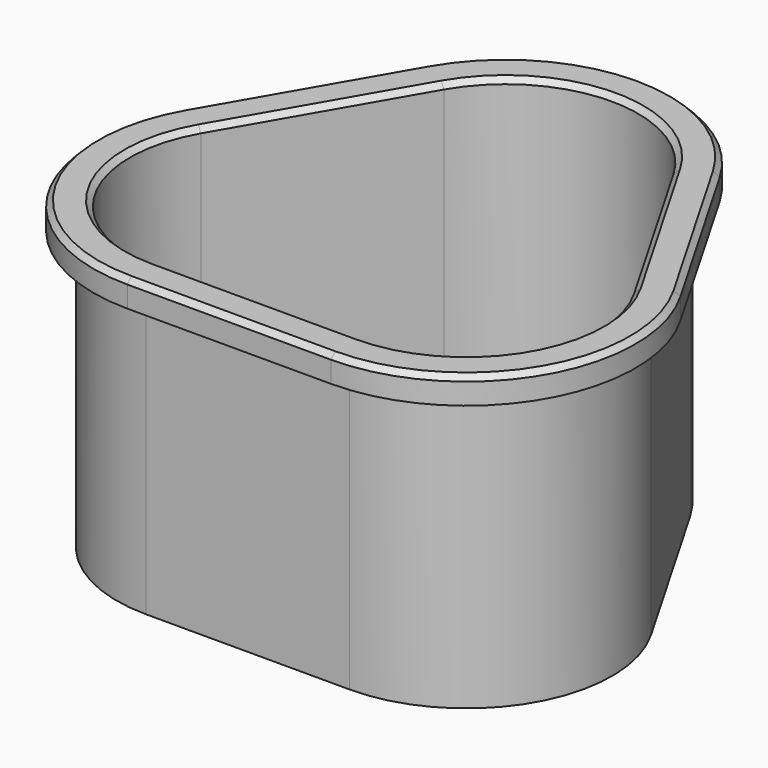
from build123d import *

# Parameters (mm, degrees)
F1_DEPTH      = 25
F2_R          = 4.3
F3_DEPTH      = 3
F3_DEPTH_BACK = 0.65
F5_R          = 40.103887
F6_DEPTH      = 2
F7_R          = 28.872497
F8_DEPTH      = 21
F9_R          = 30.144829
F10_DEPTH     = 25
F11_SIZE      = 0.4


with BuildPart() as f1:
    # F0 (on Top) → F1 (new body)
    with BuildSketch(Plane.XY):
        with BuildLine():
            ThreePointArc((7.679492, -4), (19.803848, 3), (19.803848, 17))
            Line((19.803848, 17), (12.124356, 30.30127))
            ThreePointArc((12.124356, 30.30127), (0, 37.30127), (-12.124356, 30.30127))
            Line((-12.124356, 30.30127), (-19.803848, 17))
            ThreePointArc((-19.803848, 17), (-19.803848, 3), (-7.679492, -4))
            Line((-7.679492, -4), (0, -4))
            Line((0, -4), (7.679492, -4))
        make_face()
        with BuildLine():
            Line((7.679492, 0), (0, 0))
            Line((0, 0), (-7.679492, 0))
            ThreePointArc((-7.679492, 0), (-16.339746, 5), (-16.339746, 15))
            Line((-16.339746, 15), (-8.660254, 28.30127))
            ThreePointArc((-8.660254, 28.30127), (0, 33.30127), (8.660254, 28.30127))
            Line((8.660254, 28.30127), (16.339746, 15))
            ThreePointArc((16.339746, 15), (16.339746, 5), (7.679492, 0))
        make_face(mode=Mode.SUBTRACT)
    extrude(amount=F1_DEPTH)

    # F2 (on face) → F3 (cut, two sides)
    with BuildSketch(Plane(origin=(-22.214102, 12.825318, 0), x_dir=(-0.5, -0.866025, 0), z_dir=(-0.866025, 0.5, 0))) as f3_sk:
        with Locations((-12.5, 12.5)):
            Circle(F2_R)
    extrude(amount=-F3_DEPTH, mode=Mode.SUBTRACT)
    extrude(f3_sk.sketch, amount=-F3_DEPTH_BACK, mode=Mode.SUBTRACT)

    # F5 (on face) → F6 (cut)
    with BuildSketch(Plane(origin=(0, 0, 0), x_dir=(1, 0, 0), z_dir=(0, 0, -1))):
        with Locations((0, -16.662003)):
            Circle(F5_R)
    extrude(amount=-F6_DEPTH, mode=Mode.SUBTRACT)

    # F7 (on face) → F8 (cut)
    with BuildSketch(Plane(origin=(0, 0, 2), x_dir=(1, 0, 0), z_dir=(0, 0, -1))):
        with Locations((0, -15.382648)):
            Circle(F7_R)
        with BuildLine():
            Line((-9.526279, -28.80127), (-17.205771, -15.5))
            ThreePointArc((-17.205771, -15.5), (-17.205771, -4.5), (-7.679492, 1))
            Line((-7.679492, 1), (7.679492, 1))
            ThreePointArc((7.679492, 1), (17.205771, -4.5), (17.205771, -15.5))
            Line((17.205771, -15.5), (9.526279, -28.80127))
            ThreePointArc((9.526279, -28.80127), (0, -34.30127), (-9.526279, -28.80127))
        make_face(mode=Mode.SUBTRACT)
    extrude(amount=-F8_DEPTH, mode=Mode.SUBTRACT)

    # F9 (on face) → F10 (cut)
    with BuildSketch(Plane.XY.offset(25)):
        with Locations((-0.752793, 11.019209)):
            Circle(F9_R)
        with BuildLine():
            ThreePointArc((-7.679492, -2.75), (-18.721316, 3.625), (-18.721316, 16.375))
            Line((-18.721316, 16.375), (-11.041824, 29.67627))
            ThreePointArc((-11.041824, 29.67627), (0, 36.05127), (11.041824, 29.67627))
            Line((11.041824, 29.67627), (18.721316, 16.375))
            ThreePointArc((18.721316, 16.375), (18.721316, 3.625), (7.679492, -2.75))
            Line((7.679492, -2.75), (-7.679492, -2.75))
        make_face(mode=Mode.SUBTRACT)
    extrude(amount=-F10_DEPTH, mode=Mode.SUBTRACT)

    # F11
    f11_edges = [f1.edges().sort_by_distance(p)[0] for p in [
        (-14.88157, 23.025635, 25),
        (-12.5, 21.650635, 25),
    ]]
    chamfer(f11_edges, length=F11_SIZE)


solid = f1.part
